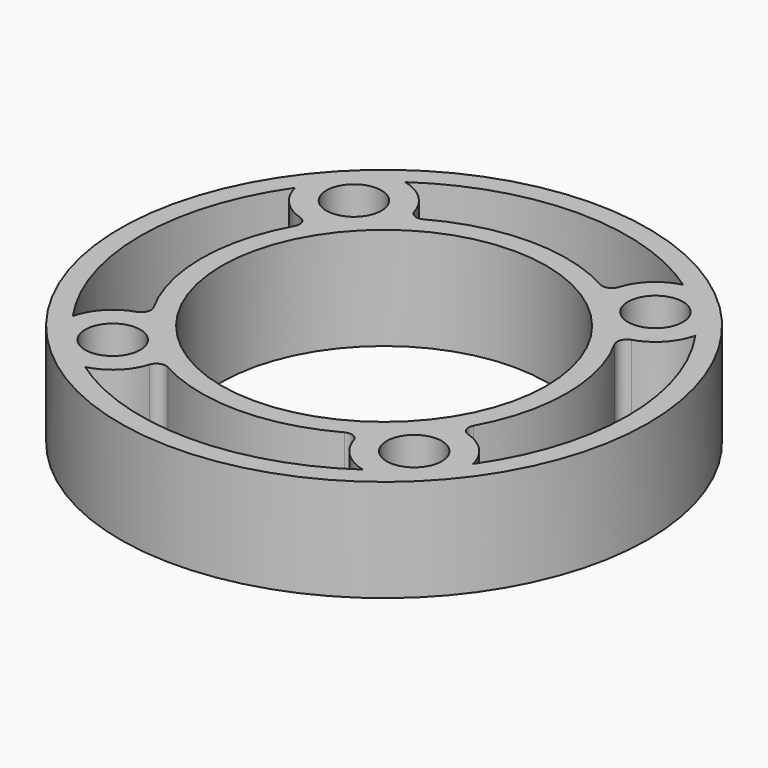
from build123d import *

# Parameters (mm, degrees)
F0_R     = 20.6375062807
F0_R_2   = 2.15265
F0_R_3   = 12.7000062807
F1_DEPTH = 8.001
F3_DEPTH = 8.001
F4_COUNT = 4
F4_ANGLE = 270
F5_R     = 0.762


with BuildPart() as f1:
    # F0 (on Top) → F1 (new body)
    with BuildSketch(Plane.XY):
        Circle(F0_R)
        with Locations((-11.7865906, -11.7865906)):
            Circle(F0_R_2, mode=Mode.SUBTRACT)
        with Locations((11.7865906, -11.7865906)):
            Circle(F0_R_2, mode=Mode.SUBTRACT)
        with Locations((-11.7865906, 11.7865906)):
            Circle(F0_R_2, mode=Mode.SUBTRACT)
        Circle(F0_R_3, mode=Mode.SUBTRACT)
        with Locations((11.7865906, 11.7865906)):
            Circle(F0_R_2, mode=Mode.SUBTRACT)
    extrude(amount=F1_DEPTH)

    # F2 (on face) → F3 (cut, through all)
    with BuildSketch(Plane(origin=(0, 0, 0), x_dir=(1, 0, 0), z_dir=(0, 0, -1))):
        with BuildLine():
            ThreePointArc((10.8660418044, -15.6471043582), (8.7251193967, -14.3121342314), (7.8214782953, -11.9564757766))
            ThreePointArc((7.8214782953, -11.9564757766), (0, -14.2875062807), (-7.8214782953, -11.9564757766))
            ThreePointArc((-7.8214782953, -11.9564757766), (-8.7251193967, -14.3121342314), (-10.8660418044, -15.6471043582))
            ThreePointArc((-10.8660418044, -15.6471043582), (0, -19.0500062807), (10.8660418044, -15.6471043582))
        make_face()
    f3 = extrude(amount=-F3_DEPTH, mode=Mode.SUBTRACT)

    # F4: F3 ×4 about axis
    f4_axis = Axis((0, 0, 0), (0, 0, -1))
    for i in range(1, F4_COUNT):
        add(f3.rotate(f4_axis, i * F4_ANGLE / (F4_COUNT - 1)), mode=Mode.SUBTRACT)

    # F5
    f5_edges = [f1.edges().sort_by_distance(p)[0] for p in [
        (-7.821478, 11.956476, 4.0005),
        (7.821478, 11.956476, 4.0005),
        (-11.956476, -7.821478, 4.0005),
        (-11.956476, 7.821478, 4.0005),
        (-7.821478, -11.956476, 4.0005),
        (7.821478, -11.956476, 4.0005),
        (11.956476, 7.821478, 4.0005),
        (11.956476, -7.821478, 4.0005),
    ]]
    fillet(f5_edges, radius=F5_R)


solid = f1.part
